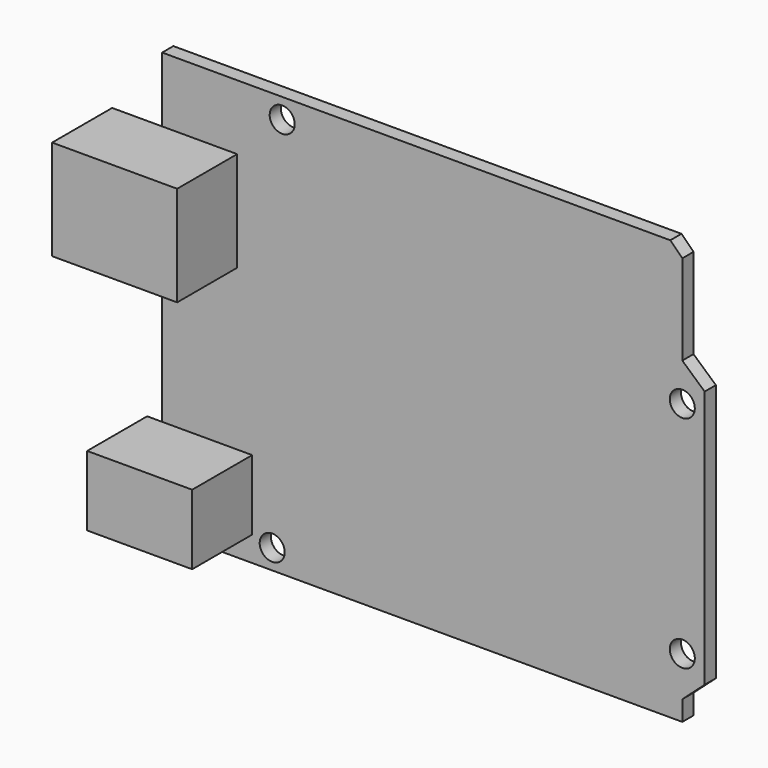
from build123d import *

# Parameters (mm, degrees)
F0_R     = 1.5875
F1_DEPTH = 1.778
F2_W     = 15.875
F2_H     = 12.7
F2_W_2   = 13.335
F2_H_2   = 8.89
F3_DEPTH = 9.525


with BuildPart() as f1:
    # F0 (on Front) → F1 (new body)
    with BuildSketch(Plane.XZ):
        Polygon((0, 53.34), (0, 0), (66.04, 0), (66.04, 2.54), (68.879806, 5.08), (68.879806, 37.846), (66.04, 40.386), (66.04, 51.816), (64.516, 53.34), align=None)
        with Locations((13.97, 2.54)):
            Circle(F0_R, mode=Mode.SUBTRACT)
        with Locations((66.04, 7.62)):
            Circle(F0_R, mode=Mode.SUBTRACT)
        with Locations((15.24, 50.8)):
            Circle(F0_R, mode=Mode.SUBTRACT)
        with Locations((66.04, 35.56)):
            Circle(F0_R, mode=Mode.SUBTRACT)
    extrude(amount=F1_DEPTH)


with BuildPart() as f3:
    # F2 (on face) → F3 (new body)
    with BuildSketch(Plane.XZ.offset(1.778)):
        with Locations((1.5875, 38.735)):
            Rectangle(F2_W, F2_H)
        with Locations((4.7625, 7.62)):
            Rectangle(F2_W_2, F2_H_2)
    extrude(amount=F3_DEPTH)


solid = Compound([f1.part, f3.part])
